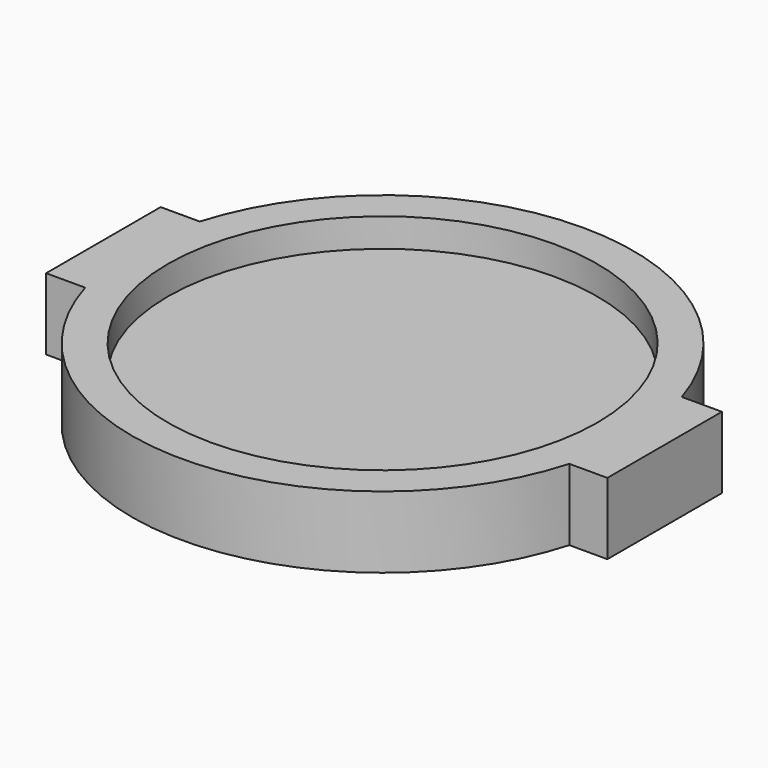
from build123d import *

# Parameters (mm, degrees)
F1_DEPTH = 12.7
F2_DEPTH = 7.62


with BuildPart() as f1:
    # F0 (on Top) → F1 (new body)
    with BuildSketch(Plane.XY):
        with BuildLine():
            Line((-49.53, -12.7), (-42.5970949714, -12.7))
            ThreePointArc((-42.5970949714, -12.7), (0.3240014655, -44.4488191412), (42.7777072696, -12.0776761323))
            Line((42.7777072696, -12.0776761323), (49.53, -12.0776761323))
            Line((49.53, -12.0776761323), (49.53, 13.3223238677))
            Line((49.53, 13.3223238677), (42.4065818802, 13.3223238677))
            ThreePointArc((42.4065818802, 13.3223238677), (26.302330734, 35.8328047738), (0, 44.45))
            ThreePointArc((0, 44.45), (-26.5639558425, 35.639286609), (-42.5970949714, 12.7))
            Line((-42.5970949714, 12.7), (-49.53, 12.7))
            Line((-49.53, 12.7), (-49.53, -12.7))
        make_face()
        with BuildLine():
            ThreePointArc((-38.1, 0), (-26.9407683632, 26.9407683632), (0, 38.1))
            ThreePointArc((0, 38.1), (26.9407683632, 26.9407683632), (38.1, 0))
            ThreePointArc((38.1, 0), (0, -38.1), (-38.1, 0))
        make_face(mode=Mode.SUBTRACT)
    extrude(amount=F1_DEPTH)

    # F0 (on Top) → F2 (join)
    with BuildSketch(Plane.XY):
        with BuildLine():
            ThreePointArc((-38.1, 0), (0, -38.1), (38.1, 0))
            Line((38.1, 0), (0, 0))
            Line((0, 0), (-38.1, 0))
        make_face()
        with BuildLine():
            Line((0, 0), (0, 38.1))
            ThreePointArc((0, 38.1), (-26.9407683632, 26.9407683632), (-38.1, 0))
            Line((-38.1, 0), (0, 0))
        make_face()
        with BuildLine():
            ThreePointArc((38.1, 0), (26.9407683632, 26.9407683632), (0, 38.1))
            Line((0, 38.1), (0, 0))
            Line((0, 0), (38.1, 0))
        make_face()
    extrude(amount=F2_DEPTH)


solid = f1.part
